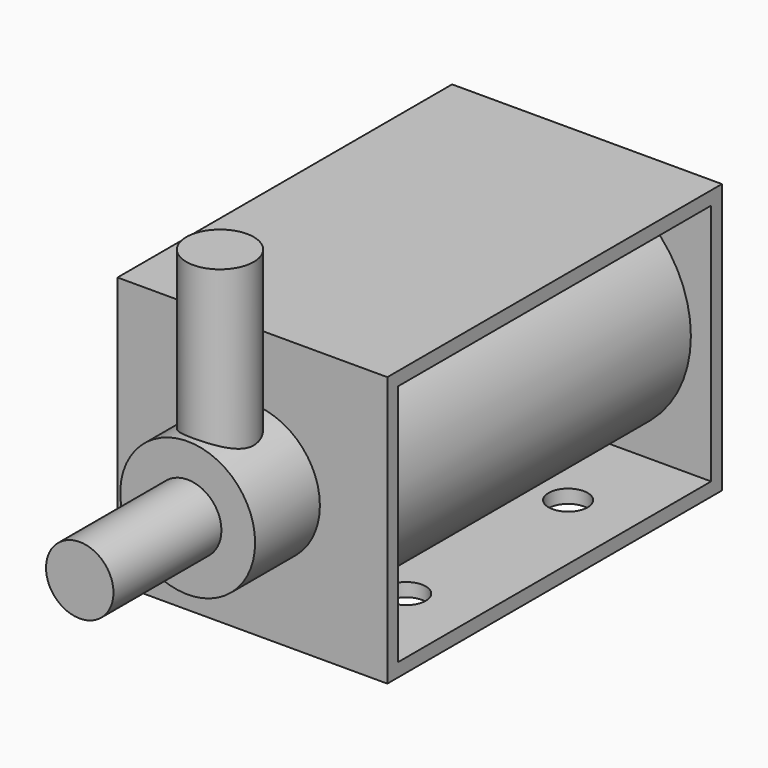
from build123d import *

# Parameters (mm, degrees)
SKETCH_W          = 20
SKETCH_H          = 20
PAD_DEPTH         = 31
SKETCH001_R       = 2.5
PAD001_DEPTH      = 16
PAD001_DEPTH_BACK = 38.5
SKETCH002_R       = 2.5
PAD002_DEPTH      = 16.3
SKETCH003_W       = 20
SKETCH003_H       = 18
SKETCH003_R       = 8.5
POCKET_DEPTH      = 29
SKETCH004_R       = 1.45
HOLE_DEPTH        = 2
HOLE_TIPS_R       = 1.45
SKETCH005_R       = 5
PAD003_DEPTH      = 6


with BuildPart() as part:
    # Sketch → Pad (new body)
    with BuildSketch(Plane.XZ):
        Rectangle(SKETCH_W, SKETCH_H)
    extrude(amount=-PAD_DEPTH)

    # Sketch001 → Pad001 (join, two sides)
    with BuildSketch(Plane.XZ) as pad001_sk:
        Circle(SKETCH001_R)
    extrude(amount=PAD001_DEPTH)
    extrude(pad001_sk.sketch, amount=-PAD001_DEPTH_BACK)

    # Sketch002 → Pad002 (join)
    with BuildSketch(Plane.XY):
        with Locations((0, -3)):
            Circle(SKETCH002_R)
    extrude(amount=PAD002_DEPTH)

    # Sketch003 → Pocket (cut)
    with BuildSketch(Plane.XZ.offset(-1)):
        Rectangle(SKETCH003_W, SKETCH003_H)
        Circle(SKETCH003_R, mode=Mode.SUBTRACT)
    extrude(amount=-POCKET_DEPTH, mode=Mode.SUBTRACT)

    # Sketch004 → Hole (cut)
    with BuildSketch(Plane.XY.offset(-10)):
        with Locations((-5, 23)):
            Circle(SKETCH004_R)
        with Locations((-5, 8)):
            Circle(SKETCH004_R)
        with Locations((5, 8)):
            Circle(SKETCH004_R)
        with Locations((5, 23)):
            Circle(SKETCH004_R)
    extrude(amount=HOLE_DEPTH, mode=Mode.SUBTRACT)

    # Hole tips → Hole tip 1 section 0
    with BuildSketch(Plane.XY.offset(-8), mode=Mode.PRIVATE) as hole_tip_1_s0:
        with Locations((-5, 23)):
            Circle(HOLE_TIPS_R)
    loft([hole_tip_1_s0.sketch, Vertex(-5, 23, -7.128752)], mode=Mode.SUBTRACT)

    # Hole tips → Hole tip 2 section 0
    with BuildSketch(Plane.XY.offset(-8), mode=Mode.PRIVATE) as hole_tip_2_s0:
        with Locations((-5, 8)):
            Circle(HOLE_TIPS_R)
    loft([hole_tip_2_s0.sketch, Vertex(-5, 8, -7.128752)], mode=Mode.SUBTRACT)

    # Hole tips → Hole tip 3 section 0
    with BuildSketch(Plane.XY.offset(-8), mode=Mode.PRIVATE) as hole_tip_3_s0:
        with Locations((5, 8)):
            Circle(HOLE_TIPS_R)
    loft([hole_tip_3_s0.sketch, Vertex(5, 8, -7.128752)], mode=Mode.SUBTRACT)

    # Hole tips → Hole tip 4 section 0
    with BuildSketch(Plane.XY.offset(-8), mode=Mode.PRIVATE) as hole_tip_4_s0:
        with Locations((5, 23)):
            Circle(HOLE_TIPS_R)
    loft([hole_tip_4_s0.sketch, Vertex(5, 23, -7.128752)], mode=Mode.SUBTRACT)

    # Sketch005 → Pad003 (join)
    with BuildSketch(Plane.XZ):
        Circle(SKETCH005_R)
    extrude(amount=PAD003_DEPTH)


solid = part.part
